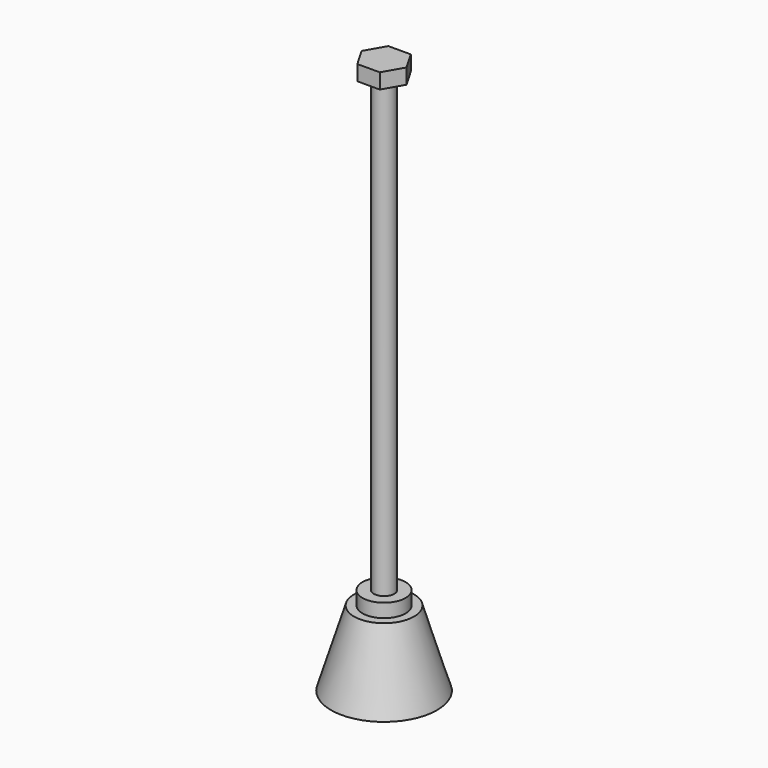
from build123d import *

# Parameters (mm, degrees)
F0_W     = 2.92
F0_H     = 3.85
F0_W_2   = 3.18
F0_H_2   = 128.03
F3_DEPTH = 4.3


with BuildPart() as f1:
    # F0 (on Front) → F1 (revolve)
    with BuildSketch(Plane.XZ):
        Polygon((0, 21.23), (0, 0), (15, 0), (8.5, 21.23), (6.1, 21.23), (2.92, 21.23), align=None)
        with Locations((1.46, 23.155)):
            Rectangle(F0_W, F0_H)
        with Locations((4.51, 23.155)):
            Rectangle(F0_W_2, F0_H)
        with Locations((1.46, 89.095)):
            Rectangle(F0_W, F0_H_2)
    revolve(axis=Axis((0, 0, 87.17), (0, 0, -1)))

    # F2 (on face) → F3 (join)
    with BuildSketch(Plane.XY.offset(153.11)):
        Polygon((6.350837, 0.014101), (3.163207, 5.507037), (-3.187631, 5.492936), (-6.350837, -0.014101), (-3.163207, -5.507037), (3.187631, -5.492936), align=None)
    extrude(amount=F3_DEPTH)


solid = f1.part
